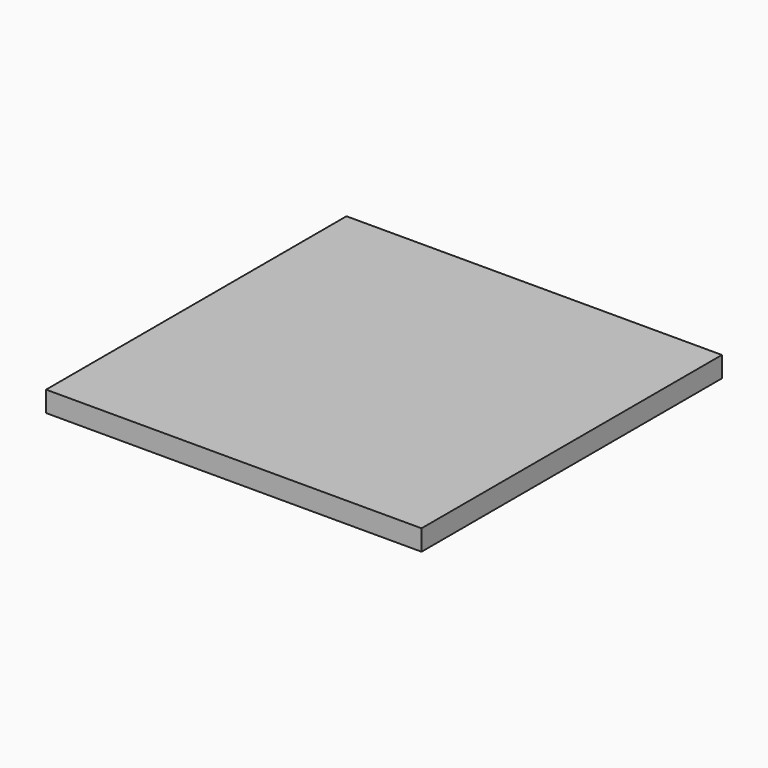
from build123d import *

# Parameters (mm, degrees)
BOX005002_W     = 361
BOX005002_H     = 361
BOX005002_DEPTH = 10
BOX004_W        = 400
BOX004_H        = 400
BOX004_DEPTH    = 22


with BuildPart() as cube:
    # Box005002 → Box005002 (new body)
    with BuildSketch(Plane(origin=(795.534, 71.3936, 98.4922), x_dir=(1, 0, 0), z_dir=(0, 0, 1))):
        with Locations((180.5, 180.5)):
            Rectangle(BOX005002_W, BOX005002_H)
    extrude(amount=BOX005002_DEPTH)


with BuildPart() as obj1:
    # Box004 → Box004 (new body)
    with BuildSketch(Plane(origin=(775.334, 50.53, 98.54), x_dir=(1, 0, 0), z_dir=(0, 0, 1))):
        with Locations((200, 200)):
            Rectangle(BOX004_W, BOX004_H)
    extrude(amount=BOX004_DEPTH)

    # Cut011005: cut Cube
    add(cube.part, mode=Mode.SUBTRACT)


with BuildPart() as obj1_1:
    # Cut011005 placement: moved
    add(obj1.part.moved(Location((-4.736969, -1.003428, 1.161069))))


solid = obj1_1.part
